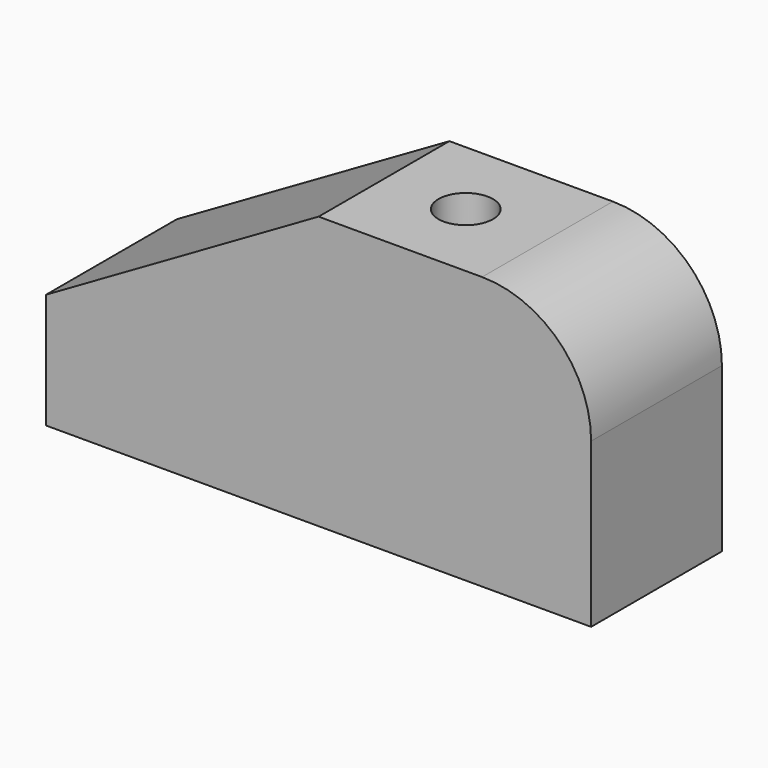
from build123d import *

# Parameters (mm, degrees)
PAD_DEPTH    = 30
SKETCH001_R  = 5
POCKET_DEPTH = 50.001


with BuildPart() as part:
    # Sketch → Pad (new body)
    with BuildSketch(Plane.XZ):
        with BuildLine():
            Line((0, 0), (100, 0))
            Line((100, 0), (100, 30))
            ThreePointArc((100, 30), (94.142136, 44.142136), (80, 50))
            Line((50, 50), (80, 50))
            Line((0, 21.132487), (50, 50))
            Line((0, 0), (0, 21.132487))
        make_face()
    extrude(amount=-PAD_DEPTH)

    # Sketch001 (on Face4 of Pad) → Pocket (cut, through all)
    with BuildSketch(Plane(origin=(0, 0, 50), x_dir=(-1, 0, 0), z_dir=(0, 0, 1))):
        with Locations((-65, -15)):
            Circle(SKETCH001_R)
    extrude(amount=-POCKET_DEPTH, mode=Mode.SUBTRACT)


solid = part.part
